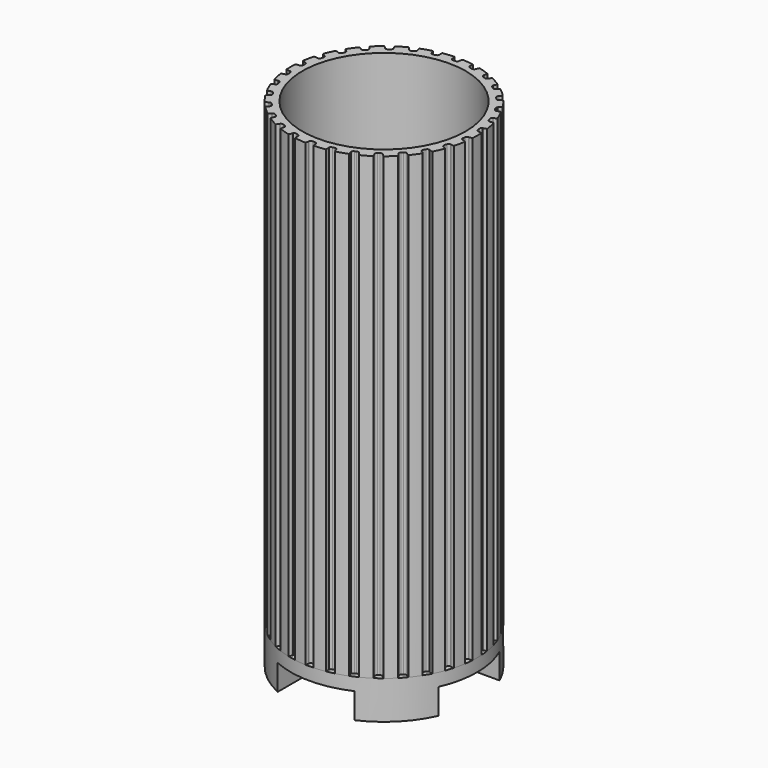
from build123d import *

# Parameters (mm, degrees)
CYLINDER001_R          = 36.5
CYLINDER001_DEPTH      = 400
CYLINDER002_R          = 100
CYLINDER002_DEPTH      = 400
CYLINDER_R             = 32
CYLINDER_DEPTH         = 200
PAD_DEPTH              = 180
CYLINDER006_R          = 19
CYLINDER006_DEPTH      = 35
CYLINDER005_R          = 15
CYLINDER005_DEPTH      = 50
BOX_W                  = 100
BOX_H                  = 30
BOX_DEPTH              = 10
BOX001_W               = 100
BOX001_H               = 30
BOX001_DEPTH           = 10
BOX001_PLACEMENT_ANGLE = 90
CYLINDER003_R          = 36.5
CYLINDER003_DEPTH      = 15
CYLINDER004_R          = 31.3
CYLINDER004_DEPTH      = 40


with BuildPart() as cylinder001:
    # Cylinder001 → Cylinder001 (new body)
    with BuildSketch(Plane.XY):
        Circle(CYLINDER001_R)
    extrude(amount=CYLINDER001_DEPTH)


with BuildPart() as cut001:
    # Cylinder002 → Cylinder002 (new body)
    with BuildSketch(Plane.XY):
        Circle(CYLINDER002_R)
    extrude(amount=CYLINDER002_DEPTH)

    # Cut001: cut Cylinder001
    add(cylinder001.part, mode=Mode.SUBTRACT)


with BuildPart() as cylinder:
    # Cylinder → Cylinder (new body)
    with BuildSketch(Plane.XY.offset(-10)):
        Circle(CYLINDER_R)
    extrude(amount=CYLINDER_DEPTH)


with BuildPart() as shade:
    # InvoluteGear → Pad (new body)
    with BuildSketch(Plane.XY):
        with BuildLine():
            Line((34.920851, -2.352474), (35.210847, -2.370096))
            add(Edge.make_bspline(
                [(35.210847, -2.370096), (35.34891, -2.371906), (35.765082, -2.362435), (36.457725, -2.219265)],
                knots=[0, 0, 0, 0, 1, 1, 1, 1], degree=3))
            add(Edge.make_bspline(
                [(36.457725, -2.219265), (37.288232, -2.045697), (38.490143, -1.681478), (39.991928, -0.920792)],
                knots=[0, 0, 0, 0, 1, 1, 1, 1], degree=3))
            ThreePointArc((39.991928, -0.920792), (40.002527, 0), (39.991928, 0.920792))
            add(Edge.make_bspline(
                [(39.991928, 0.920792), (38.490143, 1.681478), (37.288232, 2.045697), (36.457725, 2.219265)],
                knots=[0, 0, 0, 0, 1, 1, 1, 1], degree=3))
            add(Edge.make_bspline(
                [(36.457725, 2.219265), (35.765082, 2.362435), (35.34891, 2.371906), (35.210847, 2.370096)],
                knots=[0, 0, 0, 0, 1, 1, 1, 1], degree=3))
            Line((35.210847, 2.370096), (34.920851, 2.352474))
            ThreePointArc((34.920851, 2.352474), (34.429753, 2.671588), (34.223866, 3.219878))
            ThreePointArc((34.223866, 3.219878), (34.18669, 3.593166), (34.145443, 3.966026))
            ThreePointArc((34.145443, 3.966026), (34.232835, 4.545141), (34.646854, 4.959386))
            Line((34.646854, 4.959386), (34.934177, 5.002443))
            add(Edge.make_bspline(
                [(34.934177, 5.002443), (35.069599, 5.029378), (35.474707, 5.125169), (36.122448, 5.409219)],
                knots=[0, 0, 0, 0, 1, 1, 1, 1], degree=3))
            add(Edge.make_bspline(
                [(36.122448, 5.409219), (36.898719, 5.751666), (37.99864, 6.357817), (39.309452, 7.414119)],
                knots=[0, 0, 0, 0, 1, 1, 1, 1], degree=3))
            ThreePointArc((39.309452, 7.414119), (39.128376, 8.316993), (38.926565, 9.21546))
            add(Edge.make_bspline(
                [(38.926565, 9.21546), (37.299442, 9.647284), (36.048071, 9.753653), (35.199625, 9.750756)],
                knots=[0, 0, 0, 0, 1, 1, 1, 1], degree=3))
            add(Edge.make_bspline(
                [(35.199625, 9.750756), (34.492351, 9.746788), (34.083305, 9.669526), (33.948635, 9.639051)],
                knots=[0, 0, 0, 0, 1, 1, 1, 1], degree=3))
            Line((33.948635, 9.639051), (33.66864, 9.56152))
            ThreePointArc((33.66864, 9.56152), (33.121926, 9.771556), (32.806542, 10.265058))
            ThreePointArc((32.806542, 10.265058), (32.692568, 10.622459), (32.5747, 10.978595))
            ThreePointArc((32.5747, 10.978595), (32.539777, 11.563225), (32.858623, 12.054498))
            Line((32.858623, 12.054498), (33.130715, 12.156352))
            add(Edge.make_bspline(
                [(33.130715, 12.156352), (33.257577, 12.210853), (33.633917, 12.388778), (34.208446, 12.801294)],
                knots=[0, 0, 0, 0, 1, 1, 1, 1], degree=3))
            add(Edge.make_bspline(
                [(34.208446, 12.801294), (34.896555, 13.297653), (35.846414, 14.119245), (36.908964, 15.424997)],
                knots=[0, 0, 0, 0, 1, 1, 1, 1], degree=3))
            ThreePointArc((36.908964, 15.424997), (36.544127, 16.270494), (36.159924, 17.107368))
            add(Edge.make_bspline(
                [(36.159924, 17.107368), (34.478576, 17.191458), (33.232435, 17.035327), (32.403133, 16.856092)],
                knots=[0, 0, 0, 0, 1, 1, 1, 1], degree=3))
            add(Edge.make_bspline(
                [(32.403133, 16.856092), (31.71214, 16.705161), (31.328095, 16.544541), (31.202705, 16.486732)],
                knots=[0, 0, 0, 0, 1, 1, 1, 1], degree=3))
            Line((31.202705, 16.486732), (30.944948, 16.352682))
            ThreePointArc((30.944948, 16.352682), (30.366512, 16.444459), (29.955415, 16.861605))
            ThreePointArc((29.955415, 16.861605), (29.769623, 17.1875), (29.580286, 17.511348))
            ThreePointArc((29.580286, 17.511348), (29.424575, 18.075941), (29.634312, 18.62277))
            Line((29.634312, 18.62277), (29.879281, 18.778969))
            add(Edge.make_bspline(
                [(29.879281, 18.778969), (29.99204, 18.858656), (30.323163, 19.110938), (30.79937, 19.63389)],
                knots=[0, 0, 0, 0, 1, 1, 1, 1], degree=3))
            add(Edge.make_bspline(
                [(30.79937, 19.63389), (31.369244, 20.26247), (32.127527, 21.263594), (32.895377, 22.761729)],
                knots=[0, 0, 0, 0, 1, 1, 1, 1], degree=3))
            ThreePointArc((32.895377, 22.761729), (32.362724, 23.512896), (31.812921, 24.251602))
            add(Edge.make_bspline(
                [(31.812921, 24.251602), (30.150831, 23.984282), (28.964383, 23.572476), (28.190468, 23.224736)],
                knots=[0, 0, 0, 0, 1, 1, 1, 1], degree=3))
            add(Edge.make_bspline(
                [(28.190468, 23.224736), (27.545955, 22.933438), (27.203698, 22.69648), (27.093067, 22.613865)],
                knots=[0, 0, 0, 0, 1, 1, 1, 1], degree=3))
            Line((27.093067, 22.613865), (26.868813, 22.429153))
            ThreePointArc((26.868813, 22.429153), (26.283935, 22.398661), (25.795092, 22.72122))
            ThreePointArc((25.795092, 22.72122), (25.545603, 23.001365), (25.293072, 23.27877))
            ThreePointArc((25.293072, 23.27877), (25.023378, 23.798651), (25.11484, 24.377138))
            Line((25.11484, 24.377138), (25.32198, 24.580855))
            add(Edge.make_bspline(
                [(25.32198, 24.580855), (25.415707, 24.682245), (25.687142, 24.997858), (26.044215, 25.608392)],
                knots=[0, 0, 0, 0, 1, 1, 1, 1], degree=3))
            add(Edge.make_bspline(
                [(26.044215, 25.608392), (26.470946, 26.341719), (27.004514, 27.478622), (27.444105, 29.103664)],
                knots=[0, 0, 0, 0, 1, 1, 1, 1], degree=3))
            ThreePointArc((27.444105, 29.103664), (26.766915, 29.727671), (26.075541, 30.335924))
            add(Edge.make_bspline(
                [(26.075541, 30.335924), (24.505351, 29.728879), (23.430449, 29.079395), (22.745745, 28.578348)],
                knots=[0, 0, 0, 0, 1, 1, 1, 1], degree=3))
            add(Edge.make_bspline(
                [(22.745745, 28.578348), (22.17588, 28.159413), (21.890368, 27.856474), (21.799331, 27.752663)],
                knots=[0, 0, 0, 0, 1, 1, 1, 1], degree=3))
            Line((21.799331, 27.752663), (21.618381, 27.525363))
            ThreePointArc((21.618381, 27.525363), (21.052625, 27.373934), (20.507401, 27.587808))
            ThreePointArc((20.507401, 27.587808), (20.205118, 27.809959), (19.900429, 28.028798))
            ThreePointArc((19.900429, 28.028798), (19.52854, 28.481247), (19.497728, 29.066107))
            Line((19.497728, 29.066107), (19.657987, 29.30844))
            add(Edge.make_bspline(
                [(19.657987, 29.30844), (19.728586, 29.427101), (19.928469, 29.792252), (20.150802, 30.463684)],
                knots=[0, 0, 0, 0, 1, 1, 1, 1], degree=3))
            add(Edge.make_bspline(
                [(20.150802, 30.463684), (20.415742, 31.269708), (20.701274, 32.492702), (20.793393, 34.173629)],
                knots=[0, 0, 0, 0, 1, 1, 1, 1], degree=3))
            ThreePointArc((20.793393, 34.173629), (20.001264, 34.643205), (19.198535, 35.094421))
            add(Edge.make_bspline(
                [(19.198535, 35.094421), (17.788869, 34.17418), (16.872491, 33.315405), (16.306923, 32.682949)],
                knots=[0, 0, 0, 0, 1, 1, 1, 1], degree=3))
            add(Edge.make_bspline(
                [(16.306923, 32.682949), (15.836613, 32.154687), (15.620324, 31.799007), (15.55286, 31.678536)],
                knots=[0, 0, 0, 0, 1, 1, 1, 1], degree=3))
            Line((15.55286, 31.678536), (15.423123, 31.418582))
            ThreePointArc((15.423123, 31.418582), (14.901213, 31.152835), (14.323437, 31.248677))
            ThreePointArc((14.323437, 31.248677), (13.981572, 31.403125), (13.638042, 31.553834))
            ThreePointArc((13.638042, 31.553834), (13.18021, 31.919075), (13.028473, 32.484749))
            Line((13.028473, 32.484749), (13.134845, 32.755106))
            add(Edge.make_bspline(
                [(13.134845, 32.755106), (13.17923, 32.885852), (13.298827, 33.284582), (13.376703, 33.987567)],
                knots=[0, 0, 0, 0, 1, 1, 1, 1], degree=3))
            add(Edge.make_bspline(
                [(13.376703, 33.987567), (13.468271, 34.831061), (13.493289, 36.086696), (13.23391, 37.750043)],
                knots=[0, 0, 0, 0, 1, 1, 1, 1], degree=3))
            ThreePointArc((13.23391, 37.750043), (12.361461, 38.044664), (11.48246, 38.319124))
            add(Edge.make_bspline(
                [(11.48246, 38.319124), (10.294928, 37.125906), (9.577124, 36.095371), (9.155411, 35.359148)],
                knots=[0, 0, 0, 0, 1, 1, 1, 1], degree=3))
            add(Edge.make_bspline(
                [(9.155411, 35.359148), (8.805209, 34.744647), (8.667598, 34.351771), (8.626655, 34.219906)],
                knots=[0, 0, 0, 0, 1, 1, 1, 1], degree=3))
            Line((8.626655, 34.219906), (8.553801, 33.938658))
            ThreePointArc((8.553801, 33.938658), (8.098547, 33.570207), (7.51347, 33.543828))
            ThreePointArc((7.51347, 33.543828), (7.146964, 33.623824), (6.779607, 33.699815))
            ThreePointArc((6.779607, 33.699815), (6.255842, 33.961886), (5.98981, 34.483651))
            Line((5.98981, 34.483651), (6.037648, 34.770216))
            add(Edge.make_bspline(
                [(6.037648, 34.770216), (6.053879, 34.907334), (6.087962, 35.322216), (6.017977, 36.02603)],
                knots=[0, 0, 0, 0, 1, 1, 1, 1], degree=3))
            add(Edge.make_bspline(
                [(6.017977, 36.02603), (5.932172, 36.87013), (5.695582, 38.103527), (5.096042, 39.676599)],
                knots=[0, 0, 0, 0, 1, 1, 1, 1], degree=3))
            ThreePointArc((5.096042, 39.676599), (4.181403, 39.783389), (3.264547, 39.869097))
            add(Edge.make_bspline(
                [(3.264547, 39.869097), (2.351049, 38.455052), (1.863191, 37.297797), (1.603763, 36.489982)],
                knots=[0, 0, 0, 0, 1, 1, 1, 1], degree=3))
            add(Edge.make_bspline(
                [(1.603763, 36.489982), (1.388976, 35.816099), (1.336055, 35.403197), (1.323423, 35.265701)],
                knots=[0, 0, 0, 0, 1, 1, 1, 1], degree=3))
            Line((1.323423, 35.265701), (1.310636, 34.975452))
            ThreePointArc((1.310636, 34.975452), (0.941936, 34.5204), (0.375129, 34.372953))
            ThreePointArc((0.375129, 34.372953), (0, 34.375), (-0.375129, 34.372953))
            ThreePointArc((-0.375129, 34.372953), (-0.941936, 34.5204), (-1.310636, 34.975452))
            Line((-1.310636, 34.975452), (-1.323423, 35.265701))
            add(Edge.make_bspline(
                [(-1.323423, 35.265701), (-1.336055, 35.403197), (-1.388976, 35.816099), (-1.603763, 36.489982)],
                knots=[0, 0, 0, 0, 1, 1, 1, 1], degree=3))
            add(Edge.make_bspline(
                [(-1.603763, 36.489982), (-1.863191, 37.297797), (-2.351049, 38.455052), (-3.264547, 39.869097)],
                knots=[0, 0, 0, 0, 1, 1, 1, 1], degree=3))
            ThreePointArc((-3.264547, 39.869097), (-4.181403, 39.783389), (-5.096042, 39.676599))
            add(Edge.make_bspline(
                [(-5.096042, 39.676599), (-5.695582, 38.103527), (-5.932172, 36.87013), (-6.017977, 36.02603)],
                knots=[0, 0, 0, 0, 1, 1, 1, 1], degree=3))
            add(Edge.make_bspline(
                [(-6.017977, 36.02603), (-6.087962, 35.322216), (-6.053879, 34.907334), (-6.037648, 34.770216)],
                knots=[0, 0, 0, 0, 1, 1, 1, 1], degree=3))
            Line((-6.037648, 34.770216), (-5.98981, 34.483651))
            ThreePointArc((-5.98981, 34.483651), (-6.255842, 33.961886), (-6.779607, 33.699815))
            ThreePointArc((-6.779607, 33.699815), (-7.146964, 33.623824), (-7.51347, 33.543828))
            ThreePointArc((-7.51347, 33.543828), (-8.098547, 33.570207), (-8.553801, 33.938658))
            Line((-8.553801, 33.938658), (-8.626655, 34.219906))
            add(Edge.make_bspline(
                [(-8.626655, 34.219906), (-8.667598, 34.351771), (-8.805209, 34.744647), (-9.155411, 35.359148)],
                knots=[0, 0, 0, 0, 1, 1, 1, 1], degree=3))
            add(Edge.make_bspline(
                [(-9.155411, 35.359148), (-9.577124, 36.095371), (-10.294928, 37.125906), (-11.48246, 38.319124)],
                knots=[0, 0, 0, 0, 1, 1, 1, 1], degree=3))
            ThreePointArc((-11.48246, 38.319124), (-12.361461, 38.044664), (-13.23391, 37.750043))
            add(Edge.make_bspline(
                [(-13.23391, 37.750043), (-13.493289, 36.086696), (-13.468271, 34.831061), (-13.376703, 33.987567)],
                knots=[0, 0, 0, 0, 1, 1, 1, 1], degree=3))
            add(Edge.make_bspline(
                [(-13.376703, 33.987567), (-13.298827, 33.284582), (-13.17923, 32.885852), (-13.134845, 32.755106)],
                knots=[0, 0, 0, 0, 1, 1, 1, 1], degree=3))
            Line((-13.134845, 32.755106), (-13.028473, 32.484749))
            ThreePointArc((-13.028473, 32.484749), (-13.18021, 31.919075), (-13.638042, 31.553834))
            ThreePointArc((-13.638042, 31.553834), (-13.981572, 31.403125), (-14.323437, 31.248677))
            ThreePointArc((-14.323437, 31.248677), (-14.901213, 31.152835), (-15.423123, 31.418582))
            Line((-15.423123, 31.418582), (-15.55286, 31.678536))
            add(Edge.make_bspline(
                [(-15.55286, 31.678536), (-15.620324, 31.799007), (-15.836613, 32.154687), (-16.306923, 32.682949)],
                knots=[0, 0, 0, 0, 1, 1, 1, 1], degree=3))
            add(Edge.make_bspline(
                [(-16.306923, 32.682949), (-16.872491, 33.315405), (-17.788869, 34.17418), (-19.198535, 35.094421)],
                knots=[0, 0, 0, 0, 1, 1, 1, 1], degree=3))
            ThreePointArc((-19.198535, 35.094421), (-20.001264, 34.643205), (-20.793393, 34.173629))
            add(Edge.make_bspline(
                [(-20.793393, 34.173629), (-20.701274, 32.492702), (-20.415742, 31.269708), (-20.150802, 30.463684)],
                knots=[0, 0, 0, 0, 1, 1, 1, 1], degree=3))
            add(Edge.make_bspline(
                [(-20.150802, 30.463684), (-19.928469, 29.792252), (-19.728586, 29.427101), (-19.657987, 29.30844)],
                knots=[0, 0, 0, 0, 1, 1, 1, 1], degree=3))
            Line((-19.657987, 29.30844), (-19.497728, 29.066107))
            ThreePointArc((-19.497728, 29.066107), (-19.52854, 28.481247), (-19.900429, 28.028798))
            ThreePointArc((-19.900429, 28.028798), (-20.205118, 27.809959), (-20.507401, 27.587808))
            ThreePointArc((-20.507401, 27.587808), (-21.052625, 27.373934), (-21.618381, 27.525363))
            Line((-21.618381, 27.525363), (-21.799331, 27.752663))
            add(Edge.make_bspline(
                [(-21.799331, 27.752663), (-21.890368, 27.856474), (-22.17588, 28.159413), (-22.745745, 28.578348)],
                knots=[0, 0, 0, 0, 1, 1, 1, 1], degree=3))
            add(Edge.make_bspline(
                [(-22.745745, 28.578348), (-23.430449, 29.079395), (-24.505351, 29.728879), (-26.075541, 30.335924)],
                knots=[0, 0, 0, 0, 1, 1, 1, 1], degree=3))
            ThreePointArc((-26.075541, 30.335924), (-26.766915, 29.727671), (-27.444105, 29.103664))
            add(Edge.make_bspline(
                [(-27.444105, 29.103664), (-27.004514, 27.478622), (-26.470946, 26.341719), (-26.044215, 25.608392)],
                knots=[0, 0, 0, 0, 1, 1, 1, 1], degree=3))
            add(Edge.make_bspline(
                [(-26.044215, 25.608392), (-25.687142, 24.997858), (-25.415707, 24.682245), (-25.32198, 24.580855)],
                knots=[0, 0, 0, 0, 1, 1, 1, 1], degree=3))
            Line((-25.32198, 24.580855), (-25.11484, 24.377138))
            ThreePointArc((-25.11484, 24.377138), (-25.023378, 23.798651), (-25.293072, 23.27877))
            ThreePointArc((-25.293072, 23.27877), (-25.545603, 23.001365), (-25.795092, 22.72122))
            ThreePointArc((-25.795092, 22.72122), (-26.283935, 22.398661), (-26.868813, 22.429153))
            Line((-26.868813, 22.429153), (-27.093067, 22.613865))
            add(Edge.make_bspline(
                [(-27.093067, 22.613865), (-27.203698, 22.69648), (-27.545955, 22.933438), (-28.190468, 23.224736)],
                knots=[0, 0, 0, 0, 1, 1, 1, 1], degree=3))
            add(Edge.make_bspline(
                [(-28.190468, 23.224736), (-28.964383, 23.572476), (-30.150831, 23.984282), (-31.812921, 24.251602)],
                knots=[0, 0, 0, 0, 1, 1, 1, 1], degree=3))
            ThreePointArc((-31.812921, 24.251602), (-32.362724, 23.512896), (-32.895377, 22.761729))
            add(Edge.make_bspline(
                [(-32.895377, 22.761729), (-32.127527, 21.263594), (-31.369244, 20.26247), (-30.79937, 19.63389)],
                knots=[0, 0, 0, 0, 1, 1, 1, 1], degree=3))
            add(Edge.make_bspline(
                [(-30.79937, 19.63389), (-30.323163, 19.110938), (-29.99204, 18.858656), (-29.879281, 18.778969)],
                knots=[0, 0, 0, 0, 1, 1, 1, 1], degree=3))
            Line((-29.879281, 18.778969), (-29.634312, 18.62277))
            ThreePointArc((-29.634312, 18.62277), (-29.424575, 18.075941), (-29.580286, 17.511348))
            ThreePointArc((-29.580286, 17.511348), (-29.769623, 17.1875), (-29.955415, 16.861605))
            ThreePointArc((-29.955415, 16.861605), (-30.366512, 16.444459), (-30.944948, 16.352682))
            Line((-30.944948, 16.352682), (-31.202705, 16.486732))
            add(Edge.make_bspline(
                [(-31.202705, 16.486732), (-31.328095, 16.544541), (-31.71214, 16.705161), (-32.403133, 16.856092)],
                knots=[0, 0, 0, 0, 1, 1, 1, 1], degree=3))
            add(Edge.make_bspline(
                [(-32.403133, 16.856092), (-33.232435, 17.035327), (-34.478576, 17.191458), (-36.159924, 17.107368)],
                knots=[0, 0, 0, 0, 1, 1, 1, 1], degree=3))
            ThreePointArc((-36.159924, 17.107368), (-36.544127, 16.270494), (-36.908964, 15.424997))
            add(Edge.make_bspline(
                [(-36.908964, 15.424997), (-35.846414, 14.119245), (-34.896555, 13.297653), (-34.208446, 12.801294)],
                knots=[0, 0, 0, 0, 1, 1, 1, 1], degree=3))
            add(Edge.make_bspline(
                [(-34.208446, 12.801294), (-33.633917, 12.388778), (-33.257577, 12.210853), (-33.130715, 12.156352)],
                knots=[0, 0, 0, 0, 1, 1, 1, 1], degree=3))
            Line((-33.130715, 12.156352), (-32.858623, 12.054498))
            ThreePointArc((-32.858623, 12.054498), (-32.539777, 11.563225), (-32.5747, 10.978595))
            ThreePointArc((-32.5747, 10.978595), (-32.692568, 10.622459), (-32.806542, 10.265058))
            ThreePointArc((-32.806542, 10.265058), (-33.121926, 9.771556), (-33.66864, 9.56152))
            Line((-33.66864, 9.56152), (-33.948635, 9.639051))
            add(Edge.make_bspline(
                [(-33.948635, 9.639051), (-34.083305, 9.669526), (-34.492351, 9.746788), (-35.199625, 9.750756)],
                knots=[0, 0, 0, 0, 1, 1, 1, 1], degree=3))
            add(Edge.make_bspline(
                [(-35.199625, 9.750756), (-36.048071, 9.753653), (-37.299442, 9.647284), (-38.926565, 9.21546)],
                knots=[0, 0, 0, 0, 1, 1, 1, 1], degree=3))
            ThreePointArc((-38.926565, 9.21546), (-39.128376, 8.316993), (-39.309452, 7.414119))
            add(Edge.make_bspline(
                [(-39.309452, 7.414119), (-37.99864, 6.357817), (-36.898719, 5.751666), (-36.122448, 5.409219)],
                knots=[0, 0, 0, 0, 1, 1, 1, 1], degree=3))
            add(Edge.make_bspline(
                [(-36.122448, 5.409219), (-35.474707, 5.125169), (-35.069599, 5.029378), (-34.934177, 5.002443)],
                knots=[0, 0, 0, 0, 1, 1, 1, 1], degree=3))
            Line((-34.934177, 5.002443), (-34.646854, 4.959386))
            ThreePointArc((-34.646854, 4.959386), (-34.232835, 4.545141), (-34.145443, 3.966026))
            ThreePointArc((-34.145443, 3.966026), (-34.18669, 3.593166), (-34.223866, 3.219878))
            ThreePointArc((-34.223866, 3.219878), (-34.429753, 2.671588), (-34.920851, 2.352474))
            Line((-34.920851, 2.352474), (-35.210847, 2.370096))
            add(Edge.make_bspline(
                [(-35.210847, 2.370096), (-35.34891, 2.371906), (-35.765082, 2.362435), (-36.457725, 2.219265)],
                knots=[0, 0, 0, 0, 1, 1, 1, 1], degree=3))
            add(Edge.make_bspline(
                [(-36.457725, 2.219265), (-37.288232, 2.045697), (-38.490143, 1.681478), (-39.991928, 0.920792)],
                knots=[0, 0, 0, 0, 1, 1, 1, 1], degree=3))
            ThreePointArc((-39.991928, 0.920792), (-40.002527, 0), (-39.991928, -0.920792))
            add(Edge.make_bspline(
                [(-39.991928, -0.920792), (-38.490143, -1.681478), (-37.288232, -2.045697), (-36.457725, -2.219265)],
                knots=[0, 0, 0, 0, 1, 1, 1, 1], degree=3))
            add(Edge.make_bspline(
                [(-36.457725, -2.219265), (-35.765082, -2.362435), (-35.34891, -2.371906), (-35.210847, -2.370096)],
                knots=[0, 0, 0, 0, 1, 1, 1, 1], degree=3))
            Line((-35.210847, -2.370096), (-34.920851, -2.352474))
            ThreePointArc((-34.920851, -2.352474), (-34.429753, -2.671588), (-34.223866, -3.219878))
            ThreePointArc((-34.223866, -3.219878), (-34.18669, -3.593166), (-34.145443, -3.966026))
            ThreePointArc((-34.145443, -3.966026), (-34.232835, -4.545141), (-34.646854, -4.959386))
            Line((-34.646854, -4.959386), (-34.934177, -5.002443))
            add(Edge.make_bspline(
                [(-34.934177, -5.002443), (-35.069599, -5.029378), (-35.474707, -5.125169), (-36.122448, -5.409219)],
                knots=[0, 0, 0, 0, 1, 1, 1, 1], degree=3))
            add(Edge.make_bspline(
                [(-36.122448, -5.409219), (-36.898719, -5.751666), (-37.99864, -6.357817), (-39.309452, -7.414119)],
                knots=[0, 0, 0, 0, 1, 1, 1, 1], degree=3))
            ThreePointArc((-39.309452, -7.414119), (-39.128376, -8.316993), (-38.926565, -9.21546))
            add(Edge.make_bspline(
                [(-38.926565, -9.21546), (-37.299442, -9.647284), (-36.048071, -9.753653), (-35.199625, -9.750756)],
                knots=[0, 0, 0, 0, 1, 1, 1, 1], degree=3))
            add(Edge.make_bspline(
                [(-35.199625, -9.750756), (-34.492351, -9.746788), (-34.083305, -9.669526), (-33.948635, -9.639051)],
                knots=[0, 0, 0, 0, 1, 1, 1, 1], degree=3))
            Line((-33.948635, -9.639051), (-33.66864, -9.56152))
            ThreePointArc((-33.66864, -9.56152), (-33.121926, -9.771556), (-32.806542, -10.265058))
            ThreePointArc((-32.806542, -10.265058), (-32.692568, -10.622459), (-32.5747, -10.978595))
            ThreePointArc((-32.5747, -10.978595), (-32.539777, -11.563225), (-32.858623, -12.054498))
            Line((-32.858623, -12.054498), (-33.130715, -12.156352))
            add(Edge.make_bspline(
                [(-33.130715, -12.156352), (-33.257577, -12.210853), (-33.633917, -12.388778), (-34.208446, -12.801294)],
                knots=[0, 0, 0, 0, 1, 1, 1, 1], degree=3))
            add(Edge.make_bspline(
                [(-34.208446, -12.801294), (-34.896555, -13.297653), (-35.846414, -14.119245), (-36.908964, -15.424997)],
                knots=[0, 0, 0, 0, 1, 1, 1, 1], degree=3))
            ThreePointArc((-36.908964, -15.424997), (-36.544127, -16.270494), (-36.159924, -17.107368))
            add(Edge.make_bspline(
                [(-36.159924, -17.107368), (-34.478576, -17.191458), (-33.232435, -17.035327), (-32.403133, -16.856092)],
                knots=[0, 0, 0, 0, 1, 1, 1, 1], degree=3))
            add(Edge.make_bspline(
                [(-32.403133, -16.856092), (-31.71214, -16.705161), (-31.328095, -16.544541), (-31.202705, -16.486732)],
                knots=[0, 0, 0, 0, 1, 1, 1, 1], degree=3))
            Line((-31.202705, -16.486732), (-30.944948, -16.352682))
            ThreePointArc((-30.944948, -16.352682), (-30.366512, -16.444459), (-29.955415, -16.861605))
            ThreePointArc((-29.955415, -16.861605), (-29.769623, -17.1875), (-29.580286, -17.511348))
            ThreePointArc((-29.580286, -17.511348), (-29.424575, -18.075941), (-29.634312, -18.62277))
            Line((-29.634312, -18.62277), (-29.879281, -18.778969))
            add(Edge.make_bspline(
                [(-29.879281, -18.778969), (-29.99204, -18.858656), (-30.323163, -19.110938), (-30.79937, -19.63389)],
                knots=[0, 0, 0, 0, 1, 1, 1, 1], degree=3))
            add(Edge.make_bspline(
                [(-30.79937, -19.63389), (-31.369244, -20.26247), (-32.127527, -21.263594), (-32.895377, -22.761729)],
                knots=[0, 0, 0, 0, 1, 1, 1, 1], degree=3))
            ThreePointArc((-32.895377, -22.761729), (-32.362724, -23.512896), (-31.812921, -24.251602))
            add(Edge.make_bspline(
                [(-31.812921, -24.251602), (-30.150831, -23.984282), (-28.964383, -23.572476), (-28.190468, -23.224736)],
                knots=[0, 0, 0, 0, 1, 1, 1, 1], degree=3))
            add(Edge.make_bspline(
                [(-28.190468, -23.224736), (-27.545955, -22.933438), (-27.203698, -22.69648), (-27.093067, -22.613865)],
                knots=[0, 0, 0, 0, 1, 1, 1, 1], degree=3))
            Line((-27.093067, -22.613865), (-26.868813, -22.429153))
            ThreePointArc((-26.868813, -22.429153), (-26.283935, -22.398661), (-25.795092, -22.72122))
            ThreePointArc((-25.795092, -22.72122), (-25.545603, -23.001365), (-25.293072, -23.27877))
            ThreePointArc((-25.293072, -23.27877), (-25.023378, -23.798651), (-25.11484, -24.377138))
            Line((-25.11484, -24.377138), (-25.32198, -24.580855))
            add(Edge.make_bspline(
                [(-25.32198, -24.580855), (-25.415707, -24.682245), (-25.687142, -24.997858), (-26.044215, -25.608392)],
                knots=[0, 0, 0, 0, 1, 1, 1, 1], degree=3))
            add(Edge.make_bspline(
                [(-26.044215, -25.608392), (-26.470946, -26.341719), (-27.004514, -27.478622), (-27.444105, -29.103664)],
                knots=[0, 0, 0, 0, 1, 1, 1, 1], degree=3))
            ThreePointArc((-27.444105, -29.103664), (-26.766915, -29.727671), (-26.075541, -30.335924))
            add(Edge.make_bspline(
                [(-26.075541, -30.335924), (-24.505351, -29.728879), (-23.430449, -29.079395), (-22.745745, -28.578348)],
                knots=[0, 0, 0, 0, 1, 1, 1, 1], degree=3))
            add(Edge.make_bspline(
                [(-22.745745, -28.578348), (-22.17588, -28.159413), (-21.890368, -27.856474), (-21.799331, -27.752663)],
                knots=[0, 0, 0, 0, 1, 1, 1, 1], degree=3))
            Line((-21.799331, -27.752663), (-21.618381, -27.525363))
            ThreePointArc((-21.618381, -27.525363), (-21.052625, -27.373934), (-20.507401, -27.587808))
            ThreePointArc((-20.507401, -27.587808), (-20.205118, -27.809959), (-19.900429, -28.028798))
            ThreePointArc((-19.900429, -28.028798), (-19.52854, -28.481247), (-19.497728, -29.066107))
            Line((-19.497728, -29.066107), (-19.657987, -29.30844))
            add(Edge.make_bspline(
                [(-19.657987, -29.30844), (-19.728586, -29.427101), (-19.928469, -29.792252), (-20.150802, -30.463684)],
                knots=[0, 0, 0, 0, 1, 1, 1, 1], degree=3))
            add(Edge.make_bspline(
                [(-20.150802, -30.463684), (-20.415742, -31.269708), (-20.701274, -32.492702), (-20.793393, -34.173629)],
                knots=[0, 0, 0, 0, 1, 1, 1, 1], degree=3))
            ThreePointArc((-20.793393, -34.173629), (-20.001264, -34.643205), (-19.198535, -35.094421))
            add(Edge.make_bspline(
                [(-19.198535, -35.094421), (-17.788869, -34.17418), (-16.872491, -33.315405), (-16.306923, -32.682949)],
                knots=[0, 0, 0, 0, 1, 1, 1, 1], degree=3))
            add(Edge.make_bspline(
                [(-16.306923, -32.682949), (-15.836613, -32.154687), (-15.620324, -31.799007), (-15.55286, -31.678536)],
                knots=[0, 0, 0, 0, 1, 1, 1, 1], degree=3))
            Line((-15.55286, -31.678536), (-15.423123, -31.418582))
            ThreePointArc((-15.423123, -31.418582), (-14.901213, -31.152835), (-14.323437, -31.248677))
            ThreePointArc((-14.323437, -31.248677), (-13.981572, -31.403125), (-13.638042, -31.553834))
            ThreePointArc((-13.638042, -31.553834), (-13.18021, -31.919075), (-13.028473, -32.484749))
            Line((-13.028473, -32.484749), (-13.134845, -32.755106))
            add(Edge.make_bspline(
                [(-13.134845, -32.755106), (-13.17923, -32.885852), (-13.298827, -33.284582), (-13.376703, -33.987567)],
                knots=[0, 0, 0, 0, 1, 1, 1, 1], degree=3))
            add(Edge.make_bspline(
                [(-13.376703, -33.987567), (-13.468271, -34.831061), (-13.493289, -36.086696), (-13.23391, -37.750043)],
                knots=[0, 0, 0, 0, 1, 1, 1, 1], degree=3))
            ThreePointArc((-13.23391, -37.750043), (-12.361461, -38.044664), (-11.48246, -38.319124))
            add(Edge.make_bspline(
                [(-11.48246, -38.319124), (-10.294928, -37.125906), (-9.577124, -36.095371), (-9.155411, -35.359148)],
                knots=[0, 0, 0, 0, 1, 1, 1, 1], degree=3))
            add(Edge.make_bspline(
                [(-9.155411, -35.359148), (-8.805209, -34.744647), (-8.667598, -34.351771), (-8.626655, -34.219906)],
                knots=[0, 0, 0, 0, 1, 1, 1, 1], degree=3))
            Line((-8.626655, -34.219906), (-8.553801, -33.938658))
            ThreePointArc((-8.553801, -33.938658), (-8.098547, -33.570207), (-7.51347, -33.543828))
            ThreePointArc((-7.51347, -33.543828), (-7.146964, -33.623824), (-6.779607, -33.699815))
            ThreePointArc((-6.779607, -33.699815), (-6.255842, -33.961886), (-5.98981, -34.483651))
            Line((-5.98981, -34.483651), (-6.037648, -34.770216))
            add(Edge.make_bspline(
                [(-6.037648, -34.770216), (-6.053879, -34.907334), (-6.087962, -35.322216), (-6.017977, -36.02603)],
                knots=[0, 0, 0, 0, 1, 1, 1, 1], degree=3))
            add(Edge.make_bspline(
                [(-6.017977, -36.02603), (-5.932172, -36.87013), (-5.695582, -38.103527), (-5.096042, -39.676599)],
                knots=[0, 0, 0, 0, 1, 1, 1, 1], degree=3))
            ThreePointArc((-5.096042, -39.676599), (-4.181403, -39.783389), (-3.264547, -39.869097))
            add(Edge.make_bspline(
                [(-3.264547, -39.869097), (-2.351049, -38.455052), (-1.863191, -37.297797), (-1.603763, -36.489982)],
                knots=[0, 0, 0, 0, 1, 1, 1, 1], degree=3))
            add(Edge.make_bspline(
                [(-1.603763, -36.489982), (-1.388976, -35.816099), (-1.336055, -35.403197), (-1.323423, -35.265701)],
                knots=[0, 0, 0, 0, 1, 1, 1, 1], degree=3))
            Line((-1.323423, -35.265701), (-1.310636, -34.975452))
            ThreePointArc((-1.310636, -34.975452), (-0.941936, -34.5204), (-0.375129, -34.372953))
            ThreePointArc((-0.375129, -34.372953), (0, -34.375), (0.375129, -34.372953))
            ThreePointArc((0.375129, -34.372953), (0.941936, -34.5204), (1.310636, -34.975452))
            Line((1.310636, -34.975452), (1.323423, -35.265701))
            add(Edge.make_bspline(
                [(1.323423, -35.265701), (1.336055, -35.403197), (1.388976, -35.816099), (1.603763, -36.489982)],
                knots=[0, 0, 0, 0, 1, 1, 1, 1], degree=3))
            add(Edge.make_bspline(
                [(1.603763, -36.489982), (1.863191, -37.297797), (2.351049, -38.455052), (3.264547, -39.869097)],
                knots=[0, 0, 0, 0, 1, 1, 1, 1], degree=3))
            ThreePointArc((3.264547, -39.869097), (4.181403, -39.783389), (5.096042, -39.676599))
            add(Edge.make_bspline(
                [(5.096042, -39.676599), (5.695582, -38.103527), (5.932172, -36.87013), (6.017977, -36.02603)],
                knots=[0, 0, 0, 0, 1, 1, 1, 1], degree=3))
            add(Edge.make_bspline(
                [(6.017977, -36.02603), (6.087962, -35.322216), (6.053879, -34.907334), (6.037648, -34.770216)],
                knots=[0, 0, 0, 0, 1, 1, 1, 1], degree=3))
            Line((6.037648, -34.770216), (5.98981, -34.483651))
            ThreePointArc((5.98981, -34.483651), (6.255842, -33.961886), (6.779607, -33.699815))
            ThreePointArc((6.779607, -33.699815), (7.146964, -33.623824), (7.51347, -33.543828))
            ThreePointArc((7.51347, -33.543828), (8.098547, -33.570207), (8.553801, -33.938658))
            Line((8.553801, -33.938658), (8.626655, -34.219906))
            add(Edge.make_bspline(
                [(8.626655, -34.219906), (8.667598, -34.351771), (8.805209, -34.744647), (9.155411, -35.359148)],
                knots=[0, 0, 0, 0, 1, 1, 1, 1], degree=3))
            add(Edge.make_bspline(
                [(9.155411, -35.359148), (9.577124, -36.095371), (10.294928, -37.125906), (11.48246, -38.319124)],
                knots=[0, 0, 0, 0, 1, 1, 1, 1], degree=3))
            ThreePointArc((11.48246, -38.319124), (12.361461, -38.044664), (13.23391, -37.750043))
            add(Edge.make_bspline(
                [(13.23391, -37.750043), (13.493289, -36.086696), (13.468271, -34.831061), (13.376703, -33.987567)],
                knots=[0, 0, 0, 0, 1, 1, 1, 1], degree=3))
            add(Edge.make_bspline(
                [(13.376703, -33.987567), (13.298827, -33.284582), (13.17923, -32.885852), (13.134845, -32.755106)],
                knots=[0, 0, 0, 0, 1, 1, 1, 1], degree=3))
            Line((13.134845, -32.755106), (13.028473, -32.484749))
            ThreePointArc((13.028473, -32.484749), (13.18021, -31.919075), (13.638042, -31.553834))
            ThreePointArc((13.638042, -31.553834), (13.981572, -31.403125), (14.323437, -31.248677))
            ThreePointArc((14.323437, -31.248677), (14.901213, -31.152835), (15.423123, -31.418582))
            Line((15.423123, -31.418582), (15.55286, -31.678536))
            add(Edge.make_bspline(
                [(15.55286, -31.678536), (15.620324, -31.799007), (15.836613, -32.154687), (16.306923, -32.682949)],
                knots=[0, 0, 0, 0, 1, 1, 1, 1], degree=3))
            add(Edge.make_bspline(
                [(16.306923, -32.682949), (16.872491, -33.315405), (17.788869, -34.17418), (19.198535, -35.094421)],
                knots=[0, 0, 0, 0, 1, 1, 1, 1], degree=3))
            ThreePointArc((19.198535, -35.094421), (20.001264, -34.643205), (20.793393, -34.173629))
            add(Edge.make_bspline(
                [(20.793393, -34.173629), (20.701274, -32.492702), (20.415742, -31.269708), (20.150802, -30.463684)],
                knots=[0, 0, 0, 0, 1, 1, 1, 1], degree=3))
            add(Edge.make_bspline(
                [(20.150802, -30.463684), (19.928469, -29.792252), (19.728586, -29.427101), (19.657987, -29.30844)],
                knots=[0, 0, 0, 0, 1, 1, 1, 1], degree=3))
            Line((19.657987, -29.30844), (19.497728, -29.066107))
            ThreePointArc((19.497728, -29.066107), (19.52854, -28.481247), (19.900429, -28.028798))
            ThreePointArc((19.900429, -28.028798), (20.205118, -27.809959), (20.507401, -27.587808))
            ThreePointArc((20.507401, -27.587808), (21.052625, -27.373934), (21.618381, -27.525363))
            Line((21.618381, -27.525363), (21.799331, -27.752663))
            add(Edge.make_bspline(
                [(21.799331, -27.752663), (21.890368, -27.856474), (22.17588, -28.159413), (22.745745, -28.578348)],
                knots=[0, 0, 0, 0, 1, 1, 1, 1], degree=3))
            add(Edge.make_bspline(
                [(22.745745, -28.578348), (23.430449, -29.079395), (24.505351, -29.728879), (26.075541, -30.335924)],
                knots=[0, 0, 0, 0, 1, 1, 1, 1], degree=3))
            ThreePointArc((26.075541, -30.335924), (26.766915, -29.727671), (27.444105, -29.103664))
            add(Edge.make_bspline(
                [(27.444105, -29.103664), (27.004514, -27.478622), (26.470946, -26.341719), (26.044215, -25.608392)],
                knots=[0, 0, 0, 0, 1, 1, 1, 1], degree=3))
            add(Edge.make_bspline(
                [(26.044215, -25.608392), (25.687142, -24.997858), (25.415707, -24.682245), (25.32198, -24.580855)],
                knots=[0, 0, 0, 0, 1, 1, 1, 1], degree=3))
            Line((25.32198, -24.580855), (25.11484, -24.377138))
            ThreePointArc((25.11484, -24.377138), (25.023378, -23.798651), (25.293072, -23.27877))
            ThreePointArc((25.293072, -23.27877), (25.545603, -23.001365), (25.795092, -22.72122))
            ThreePointArc((25.795092, -22.72122), (26.283935, -22.398661), (26.868813, -22.429153))
            Line((26.868813, -22.429153), (27.093067, -22.613865))
            add(Edge.make_bspline(
                [(27.093067, -22.613865), (27.203698, -22.69648), (27.545955, -22.933438), (28.190468, -23.224736)],
                knots=[0, 0, 0, 0, 1, 1, 1, 1], degree=3))
            add(Edge.make_bspline(
                [(28.190468, -23.224736), (28.964383, -23.572476), (30.150831, -23.984282), (31.812921, -24.251602)],
                knots=[0, 0, 0, 0, 1, 1, 1, 1], degree=3))
            ThreePointArc((31.812921, -24.251602), (32.362724, -23.512896), (32.895377, -22.761729))
            add(Edge.make_bspline(
                [(32.895377, -22.761729), (32.127527, -21.263594), (31.369244, -20.26247), (30.79937, -19.63389)],
                knots=[0, 0, 0, 0, 1, 1, 1, 1], degree=3))
            add(Edge.make_bspline(
                [(30.79937, -19.63389), (30.323163, -19.110938), (29.99204, -18.858656), (29.879281, -18.778969)],
                knots=[0, 0, 0, 0, 1, 1, 1, 1], degree=3))
            Line((29.879281, -18.778969), (29.634312, -18.62277))
            ThreePointArc((29.634312, -18.62277), (29.424575, -18.075941), (29.580286, -17.511348))
            ThreePointArc((29.580286, -17.511348), (29.769623, -17.1875), (29.955415, -16.861605))
            ThreePointArc((29.955415, -16.861605), (30.366512, -16.444459), (30.944948, -16.352682))
            Line((30.944948, -16.352682), (31.202705, -16.486732))
            add(Edge.make_bspline(
                [(31.202705, -16.486732), (31.328095, -16.544541), (31.71214, -16.705161), (32.403133, -16.856092)],
                knots=[0, 0, 0, 0, 1, 1, 1, 1], degree=3))
            add(Edge.make_bspline(
                [(32.403133, -16.856092), (33.232435, -17.035327), (34.478576, -17.191458), (36.159924, -17.107368)],
                knots=[0, 0, 0, 0, 1, 1, 1, 1], degree=3))
            ThreePointArc((36.159924, -17.107368), (36.544127, -16.270494), (36.908964, -15.424997))
            add(Edge.make_bspline(
                [(36.908964, -15.424997), (35.846414, -14.119245), (34.896555, -13.297653), (34.208446, -12.801294)],
                knots=[0, 0, 0, 0, 1, 1, 1, 1], degree=3))
            add(Edge.make_bspline(
                [(34.208446, -12.801294), (33.633917, -12.388778), (33.257577, -12.210853), (33.130715, -12.156352)],
                knots=[0, 0, 0, 0, 1, 1, 1, 1], degree=3))
            Line((33.130715, -12.156352), (32.858623, -12.054498))
            ThreePointArc((32.858623, -12.054498), (32.539777, -11.563225), (32.5747, -10.978595))
            ThreePointArc((32.5747, -10.978595), (32.692568, -10.622459), (32.806542, -10.265058))
            ThreePointArc((32.806542, -10.265058), (33.121926, -9.771556), (33.66864, -9.56152))
            Line((33.66864, -9.56152), (33.948635, -9.639051))
            add(Edge.make_bspline(
                [(33.948635, -9.639051), (34.083305, -9.669526), (34.492351, -9.746788), (35.199625, -9.750756)],
                knots=[0, 0, 0, 0, 1, 1, 1, 1], degree=3))
            add(Edge.make_bspline(
                [(35.199625, -9.750756), (36.048071, -9.753653), (37.299442, -9.647284), (38.926565, -9.21546)],
                knots=[0, 0, 0, 0, 1, 1, 1, 1], degree=3))
            ThreePointArc((38.926565, -9.21546), (39.128376, -8.316993), (39.309452, -7.414119))
            add(Edge.make_bspline(
                [(39.309452, -7.414119), (37.99864, -6.357817), (36.898719, -5.751666), (36.122448, -5.409219)],
                knots=[0, 0, 0, 0, 1, 1, 1, 1], degree=3))
            add(Edge.make_bspline(
                [(36.122448, -5.409219), (35.474707, -5.125169), (35.069599, -5.029378), (34.934177, -5.002443)],
                knots=[0, 0, 0, 0, 1, 1, 1, 1], degree=3))
            Line((34.934177, -5.002443), (34.646854, -4.959386))
            ThreePointArc((34.646854, -4.959386), (34.232835, -4.545141), (34.145443, -3.966026))
            ThreePointArc((34.145443, -3.966026), (34.18669, -3.593166), (34.223866, -3.219878))
            ThreePointArc((34.223866, -3.219878), (34.429753, -2.671588), (34.920851, -2.352474))
        make_face()
    extrude(amount=PAD_DEPTH)

    # Cut: cut Cylinder
    add(cylinder.part, mode=Mode.SUBTRACT)

    # Cut002: cut Cut001
    add(cut001.part, mode=Mode.SUBTRACT)


with BuildPart() as shade_1:
    # Cut002 placement: moved
    add(shade.part.moved(Location((0, 0, 15))))


with BuildPart() as cylinder006:
    # Cylinder006 → Cylinder006 (new body)
    with BuildSketch(Plane.XY):
        Circle(CYLINDER006_R)
    extrude(amount=CYLINDER006_DEPTH)


with BuildPart() as fixture_mount:
    # Cylinder005 → Cylinder005 (new body)
    with BuildSketch(Plane.XY):
        Circle(CYLINDER005_R)
    extrude(amount=CYLINDER005_DEPTH)

    # Fusion002: union Cylinder006
    add(cylinder006.part)


with BuildPart() as cube:
    # Box → Box (new body)
    with BuildSketch(Plane(origin=(-50, -15, 0), x_dir=(1, 0, 0), z_dir=(0, 0, 1))):
        with Locations((50, 15)):
            Rectangle(BOX_W, BOX_H)
    extrude(amount=BOX_DEPTH)


with BuildPart() as feet_cutout_fusion:
    # Box001 → Box001 (new body)
    with BuildSketch(Plane.XY):
        with Locations((50, 15)):
            Rectangle(BOX001_W, BOX001_H)
    extrude(amount=BOX001_DEPTH)


with BuildPart() as feet_cutout_fusion_1:
    # Box001 placement: moved
    add(feet_cutout_fusion.part.moved(Location((15, -50, 0))).rotate(Axis((15, -50, 0), (0, 0, 1)), BOX001_PLACEMENT_ANGLE))

    # Fusion001: union Cube
    add(cube.part)


with BuildPart() as cylinder003:
    # Cylinder003 → Cylinder003 (new body)
    with BuildSketch(Plane.XY):
        Circle(CYLINDER003_R)
    extrude(amount=CYLINDER003_DEPTH)


with BuildPart() as base_w_mount:
    # Cylinder004 → Cylinder004 (new body)
    with BuildSketch(Plane.XY):
        Circle(CYLINDER004_R)
    extrude(amount=CYLINDER004_DEPTH)

    # Fusion: union Cylinder003
    add(cylinder003.part)

    # Cut003: cut Feet Cutout Fusion
    add(feet_cutout_fusion_1.part, mode=Mode.SUBTRACT)

    # Cut004: cut Fixture Mount
    add(fixture_mount.part, mode=Mode.SUBTRACT)


solid = Compound([shade_1.part, base_w_mount.part])
